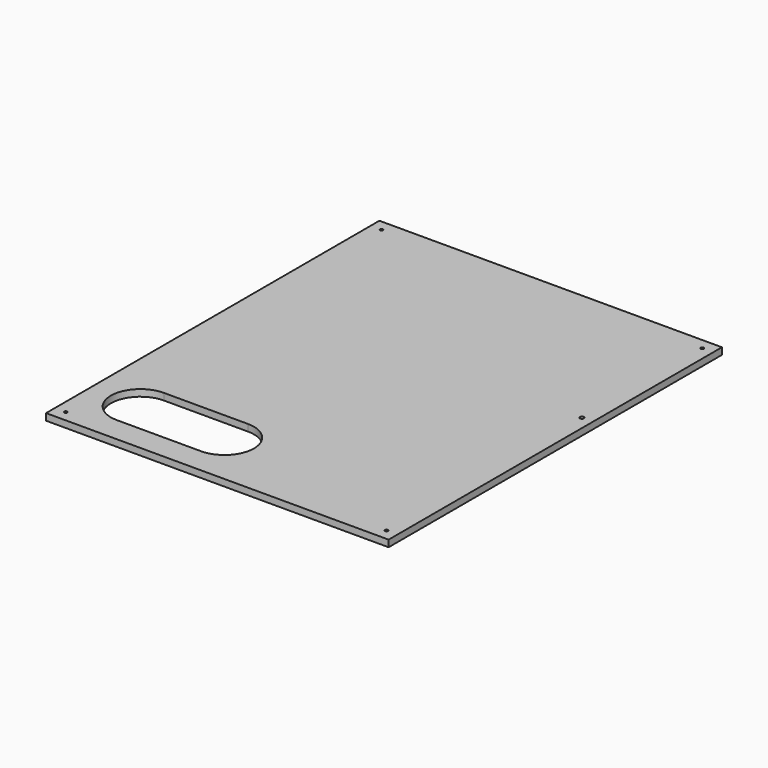
from build123d import *

# Parameters (mm, degrees)
SKETCH_W   = 407
SKETCH_H   = 495
SKETCH_R   = 1.8
SKETCH_R_2 = 2.4
PAD_DEPTH  = 8


with BuildPart() as part:
    # Sketch → Pad (new body)
    with BuildSketch(Plane.XY):
        Rectangle(SKETCH_W, SKETCH_H)
        with Locations((-190.5, 234.5)):
            Circle(SKETCH_R, mode=Mode.SUBTRACT)
        with Locations((190.5, 234.5)):
            Circle(SKETCH_R, mode=Mode.SUBTRACT)
        with Locations((-190.5, -234.5)):
            Circle(SKETCH_R, mode=Mode.SUBTRACT)
        with Locations((190.5, -234.5)):
            Circle(SKETCH_R, mode=Mode.SUBTRACT)
        with Locations((190.5, 55.9)):
            Circle(SKETCH_R_2, mode=Mode.SUBTRACT)
        with BuildLine():
            ThreePointArc((-143.5, -147.5), (-178.5, -182.5), (-143.5, -217.5))
            Line((-143.5, -217.5), (-43.5, -217.5))
            ThreePointArc((-43.5, -217.5), (-8.5, -182.5), (-43.5, -147.5))
            Line((-143.5, -147.5), (-43.5, -147.5))
        make_face(mode=Mode.SUBTRACT)
    extrude(amount=PAD_DEPTH)


solid = part.part
